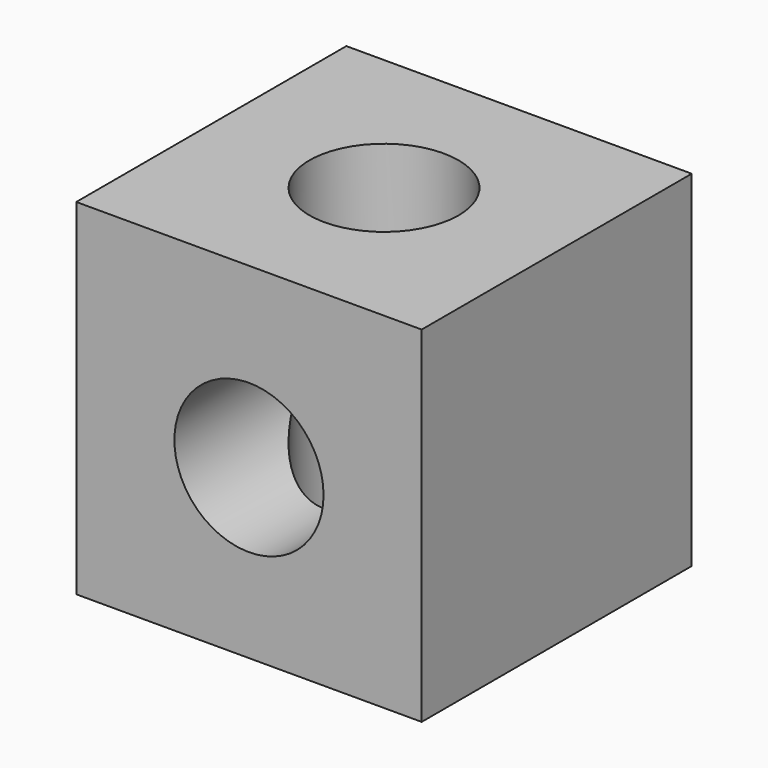
from build123d import *

# Parameters (mm, degrees)
F0_W     = 44.704
F0_H     = 44.704
F0_R     = 9.652
F1_DEPTH = 43.688
F2_R     = 9.652
F3_DEPTH = 44.705


with BuildPart() as f1:
    # F0 (on Front) → F1 (new body)
    with BuildSketch(Plane.XZ):
        with Locations((-17.125217, 3.559626)):
            Rectangle(F0_W, F0_H)
        with Locations((-17.125217, 2.924626)):
            Circle(F0_R, mode=Mode.SUBTRACT)
    extrude(amount=F1_DEPTH)

    # F2 (on face) → F3 (cut, through all)
    with BuildSketch(Plane.XY.offset(25.911626)):
        with Locations((-17.125217, -21.844)):
            Circle(F2_R)
    extrude(amount=-F3_DEPTH, mode=Mode.SUBTRACT)


solid = f1.part
